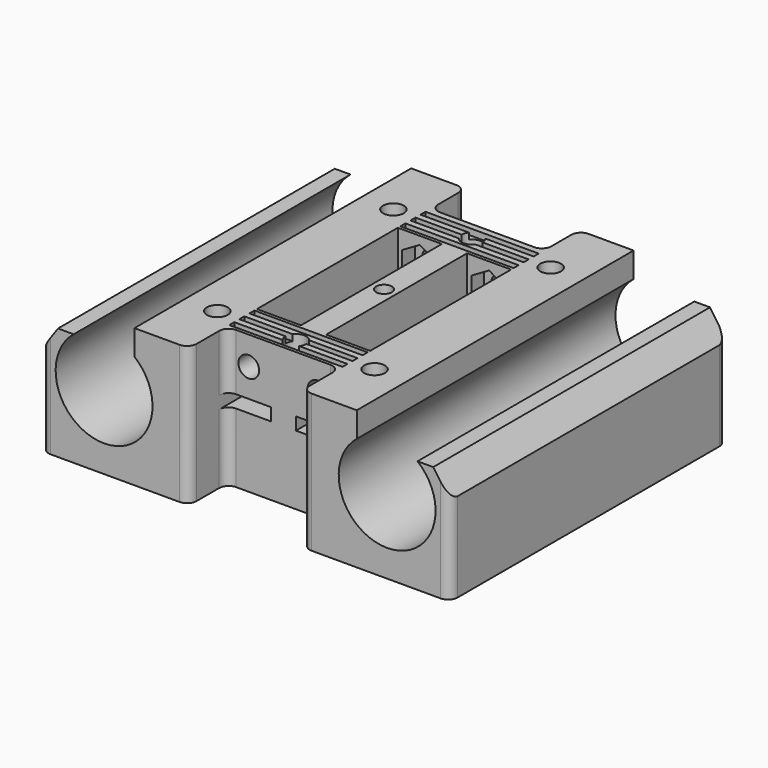
from build123d import *

# Parameters (mm, degrees)
SKETCH_R             = 1.65
SKETCH_W             = 7
SKETCH_H             = 2
PAD_DEPTH            = 27.5
SKETCH001_R          = 1.65
POCKET_DEPTH         = 12.001
POCKET_DEPTH_BACK    = -10.001
SKETCH002_R          = 6.3
POCKET001_DEPTH      = 6.5
SKETCH003_W          = 7
SKETCH003_H          = 28
POCKET002_DEPTH      = 10
SKETCH004_W          = 18
SKETCH004_H          = 1
POCKET003_DEPTH      = 1
POCKET004_DEPTH      = 2.5
POCKET005_DEPTH      = 2.5
SKETCH007_W          = 18
SKETCH007_H          = 7
SKETCH007_H_2        = 7.5
POCKET006_DEPTH      = 22.001
SKETCH008_R          = 1.25
POCKET007_DEPTH      = 12.001
POCKET007_DEPTH_BACK = -10.001
FILLET_R             = 1.5


with BuildPart() as part:
    # Sketch → Pad (new body, symmetric)
    with BuildSketch(Plane.XZ):
        with BuildLine():
            ThreePointArc((-27.325971, 6), (-22.5, -7.7), (-17.674029, 6))
            Line((-17.674029, 6), (-17.674029, 10))
            Line((-17.674029, 10), (17.674029, 10))
            Line((17.674029, 10), (17.674029, 6))
            ThreePointArc((17.674029, 6), (22.5, -7.7), (27.325971, 6))
            Line((29.825971, 6), (27.325971, 6))
            Line((32.5, 2.181091), (29.825971, 6))
            Line((32.5, -12), (32.5, 2.181091))
            Line((-32.5, -12), (32.5, -12))
            Line((-32.5, 2.181091), (-32.5, -12))
            Line((-29.825971, 6), (-32.5, 2.181091))
            Line((-27.325971, 6), (-29.825971, 6))
        make_face()
        with Locations((-5.5, 5.5)):
            Circle(SKETCH_R, mode=Mode.SUBTRACT)
        with Locations((5.5, 5.5)):
            Circle(SKETCH_R, mode=Mode.SUBTRACT)
        with Locations((-5.5, 0)):
            Rectangle(SKETCH_W, SKETCH_H, mode=Mode.SUBTRACT)
        with Locations((5.5, 0)):
            Rectangle(SKETCH_W, SKETCH_H, mode=Mode.SUBTRACT)
    extrude(amount=PAD_DEPTH, both=True)

    # Sketch001 → Pocket (cut, two sides)
    with BuildSketch(Plane.XY) as pocket_sk:
        with Locations((-12.5, 17.5)):
            Circle(SKETCH001_R)
        with Locations((12.5, 17.5)):
            Circle(SKETCH001_R)
        with Locations((-12.5, -17.5)):
            Circle(SKETCH001_R)
        with Locations((12.5, -17.5)):
            Circle(SKETCH001_R)
        with Locations((0, 17.5)):
            Circle(SKETCH001_R)
        with Locations((0, -17.5)):
            Circle(SKETCH001_R)
    extrude(amount=-POCKET_DEPTH, mode=Mode.SUBTRACT)
    extrude(pocket_sk.sketch, amount=-POCKET_DEPTH_BACK, mode=Mode.SUBTRACT)

    # Sketch002 (on DatumPlane) → Pocket001 (cut)
    with BuildSketch(Plane.XY.offset(-11)):
        with Locations((-8, 8)):
            Circle(SKETCH002_R)
        with Locations((8, 8)):
            Circle(SKETCH002_R)
        with Locations((8, -8)):
            Circle(SKETCH002_R)
        with Locations((-8, -8)):
            Circle(SKETCH002_R)
    extrude(amount=POCKET001_DEPTH, mode=Mode.SUBTRACT)

    # Sketch003 (on DatumPlane) → Pocket002 (cut)
    with BuildSketch(Plane.XY.offset(10)):
        with Locations((-5.5, 0)):
            Rectangle(SKETCH003_W, SKETCH003_H)
        with Locations((5.5, 0)):
            Rectangle(SKETCH003_W, SKETCH003_H)
    extrude(amount=-POCKET002_DEPTH, mode=Mode.SUBTRACT)

    # Sketch004 (on DatumPlane) → Pocket003 (cut)
    with BuildSketch(Plane.XY.offset(10)):
        with Locations((0, 15)):
            Rectangle(SKETCH004_W, SKETCH004_H)
        with Locations((0, 17)):
            Rectangle(SKETCH004_W, SKETCH004_H)
        with Locations((0, 19)):
            Rectangle(SKETCH004_W, SKETCH004_H)
        with Locations((0, 21)):
            Rectangle(SKETCH004_W, SKETCH004_H)
        with Locations((0, 23)):
            Rectangle(SKETCH004_W, SKETCH004_H)
        with Locations((0, 25)):
            Rectangle(SKETCH004_W, SKETCH004_H)
        with Locations((0, 27)):
            Rectangle(SKETCH004_W, SKETCH004_H)
        with Locations((0, -27)):
            Rectangle(SKETCH004_W, SKETCH004_H)
        with Locations((0, -25)):
            Rectangle(SKETCH004_W, SKETCH004_H)
        with Locations((0, -23)):
            Rectangle(SKETCH004_W, SKETCH004_H)
        with Locations((0, -21)):
            Rectangle(SKETCH004_W, SKETCH004_H)
        with Locations((0, -19)):
            Rectangle(SKETCH004_W, SKETCH004_H)
        with Locations((0, -17)):
            Rectangle(SKETCH004_W, SKETCH004_H)
        with Locations((0, -15)):
            Rectangle(SKETCH004_W, SKETCH004_H)
    extrude(amount=-POCKET003_DEPTH, mode=Mode.SUBTRACT)

    # Sketch005 (on DatumPlane) → Pocket004 (cut)
    with BuildSketch(Plane.XZ.offset(14)):
        Polygon((-5.5, 2.266838), (-2.7, 3.883419), (-2.7, 7.116581), (-5.5, 8.733162), (-8.3, 7.116581), (-8.3, 3.883419), align=None)
        Polygon((8.3, 3.883419), (8.3, 7.116581), (5.5, 8.733162), (2.7, 7.116581), (2.7, 3.883419), (5.5, 2.266838), align=None)
    extrude(amount=POCKET004_DEPTH, mode=Mode.SUBTRACT)

    # Sketch006 (on DatumPlane) → Pocket005 (cut)
    with BuildSketch(Plane.XZ.offset(-14)):
        Polygon((-2.7, 3.883419), (-2.7, 7.116581), (-5.5, 8.733162), (-8.3, 7.116581), (-8.3, 3.883419), (-5.5, 2.266838), align=None)
        Polygon((8.3, 3.883419), (8.3, 7.116581), (5.5, 8.733162), (2.7, 7.116581), (2.7, 3.883419), (5.5, 2.266838), align=None)
    extrude(amount=-POCKET005_DEPTH, mode=Mode.SUBTRACT)

    # Sketch007 (on DatumPlane) → Pocket006 (cut, through all)
    with BuildSketch(Plane.XY.offset(10)):
        with Locations((0, 24)):
            Rectangle(SKETCH007_W, SKETCH007_H)
        with Locations((0, -23.75)):
            Rectangle(SKETCH007_W, SKETCH007_H_2)
    extrude(amount=-POCKET006_DEPTH, mode=Mode.SUBTRACT)

    # Sketch008 → Pocket007 (cut, two sides)
    with BuildSketch(Plane.XY) as pocket007_sk:
        Circle(SKETCH008_R)
    extrude(amount=-POCKET007_DEPTH, mode=Mode.SUBTRACT)
    extrude(pocket007_sk.sketch, amount=-POCKET007_DEPTH_BACK, mode=Mode.SUBTRACT)

    # Fillet
    fillet_edges = [part.edges().sort_by_distance(p)[0] for p in [
        (-9, -20, 5.5),
        (-9, -20, -6.5),
        (9, -20, 5.5),
        (9, -20, -6.5),
        (-9, -27.5, -1),
        (9, -27.5, -1),
        (9, 20.5, 5.5),
        (9, 20.5, -6.5),
        (9, 27.5, -1),
        (-9, 20.5, 5.5),
        (-9, 20.5, -6.5),
        (-9, 27.5, -1),
        (32.5, 27.5, -4.909454),
        (-32.5, 27.5, -4.909454),
        (-32.5, -27.5, -4.909454),
        (32.5, -27.5, -4.909454),
    ]]
    fillet(fillet_edges, radius=FILLET_R)


solid = part.part
